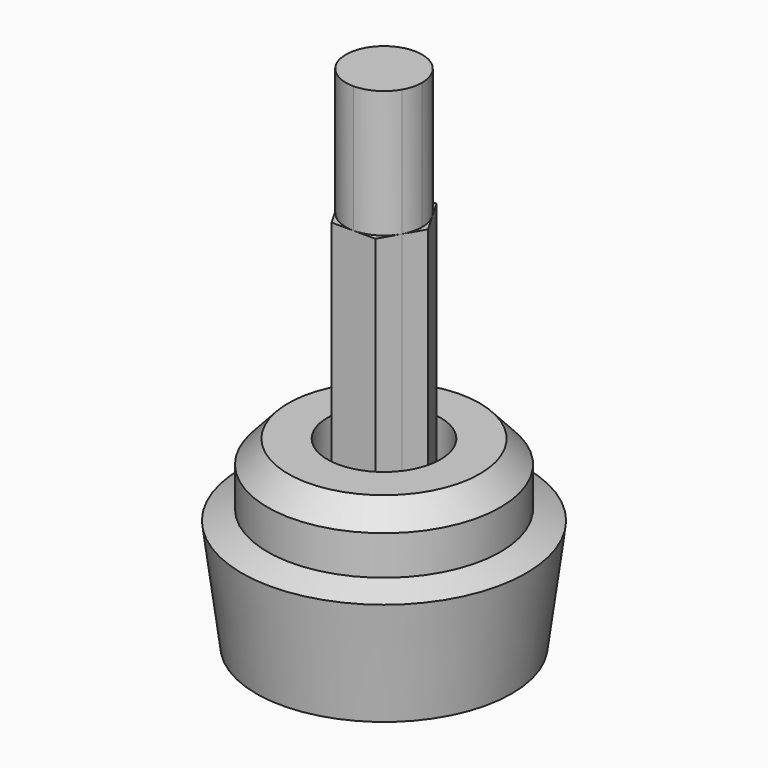
from build123d import *

# Parameters (mm, degrees)
F3_DEPTH = 101.6
F4_DEPTH = 76.2


with BuildPart() as f1:
    # F0 (on Front) → F1 (revolve)
    with BuildSketch(Plane.XZ):
        Polygon((11.2900706008, 36.5509614348), (11.2900706008, 0), (25.5186520517, 0), (28.4056123346, 22.1161656082), (23.2503265142, 24.1782795638), (23.2503265142, 32.01431036), (19.1261023283, 36.5509614348), align=None)
    revolve(axis=Axis((0, 0, 21.5748623013), (0, 0, 1)))


with BuildPart() as f3:
    # F2 (on Top) → F3 (new body)
    with BuildSketch(Plane.XY):
        with BuildLine():
            ThreePointArc((6.5898312731, -3.8046407996), (7.3500017096, -1.9694269956), (7.6092816889, 0))
            ThreePointArc((7.6092816889, 0), (7.3500016803, 1.9694271048), (6.58983116, 3.8046409954))
            ThreePointArc((6.58983116, 3.8046409954), (3.804640769, 6.5898312907), (0, 7.6092816889))
            ThreePointArc((0, 7.6092816889), (-3.8046409197, 6.5898312037), (-6.5898313341, 3.804640694))
            ThreePointArc((-6.5898313341, 3.804640694), (-7.6092816889, 8.9e-09), (-6.589831343, -3.8046406786))
            ThreePointArc((-6.589831343, -3.8046406786), (-3.8046409274, -6.5898311993), (0, -7.6092816889))
            ThreePointArc((0, -7.6092816889), (3.8046408669, -6.5898312342), (6.5898312731, -3.8046407996))
        make_face()
    extrude(amount=F3_DEPTH)

    # F2 (on Top) → F4 (join)
    with BuildSketch(Plane.XY):
        with BuildLine():
            ThreePointArc((6.5898312731, -3.8046407996), (7.3500017096, -1.9694269956), (7.6092816889, 0))
            ThreePointArc((7.6092816889, 0), (7.3500016803, 1.9694271048), (6.58983116, 3.8046409954))
            ThreePointArc((6.58983116, 3.8046409954), (3.804640769, 6.5898312907), (0, 7.6092816889))
            ThreePointArc((0, 7.6092816889), (-3.8046409197, 6.5898312037), (-6.5898313341, 3.804640694))
            ThreePointArc((-6.5898313341, 3.804640694), (-7.6092816889, 8.9e-09), (-6.589831343, -3.8046406786))
            ThreePointArc((-6.589831343, -3.8046406786), (-3.8046409274, -6.5898311993), (0, -7.6092816889))
            ThreePointArc((0, -7.6092816889), (3.8046408669, -6.5898312342), (6.5898312731, -3.8046407996))
        make_face()
        with BuildLine():
            ThreePointArc((-6.5898313341, 3.804640694), (-3.8046409197, 6.5898312037), (0, 7.6092816889))
            Line((0, 7.6092816889), (-4.3932208314, 7.6092816889))
            Line((-4.3932208314, 7.6092816889), (-6.5898313341, 3.804640694))
        make_face()
        with BuildLine():
            ThreePointArc((0, 7.6092816889), (3.804640769, 6.5898312907), (6.58983116, 3.8046409954))
            Line((6.58983116, 3.8046409954), (4.3932208314, 7.6092816889))
            Line((4.3932208314, 7.6092816889), (0, 7.6092816889))
        make_face()
        with BuildLine():
            ThreePointArc((6.58983116, 3.8046409954), (7.3500016803, 1.9694271048), (7.6092816889, 0))
            ThreePointArc((7.6092816889, 0), (7.3500017096, -1.9694269956), (6.5898312731, -3.8046407996))
            Line((6.5898312731, -3.8046407996), (8.7864416629, 0))
            Line((8.7864416629, 0), (6.58983116, 3.8046409954))
        make_face()
        with BuildLine():
            Line((4.3932208314, -7.6092816889), (6.5898312731, -3.8046407996))
            ThreePointArc((6.5898312731, -3.8046407996), (3.8046408669, -6.5898312342), (0, -7.6092816889))
            Line((0, -7.6092816889), (4.3932208314, -7.6092816889))
        make_face()
        with BuildLine():
            Line((-4.3932208314, -7.6092816889), (0, -7.6092816889))
            ThreePointArc((0, -7.6092816889), (-3.8046409274, -6.5898311993), (-6.589831343, -3.8046406786))
            Line((-6.589831343, -3.8046406786), (-4.3932208314, -7.6092816889))
        make_face()
        with BuildLine():
            ThreePointArc((-6.589831343, -3.8046406786), (-7.6092816889, 8.9e-09), (-6.5898313341, 3.804640694))
            Line((-6.5898313341, 3.804640694), (-8.7864416629, 0))
            Line((-8.7864416629, 0), (-6.589831343, -3.8046406786))
        make_face()
    extrude(amount=F4_DEPTH)


solid = Compound([f1.part, f3.part])
